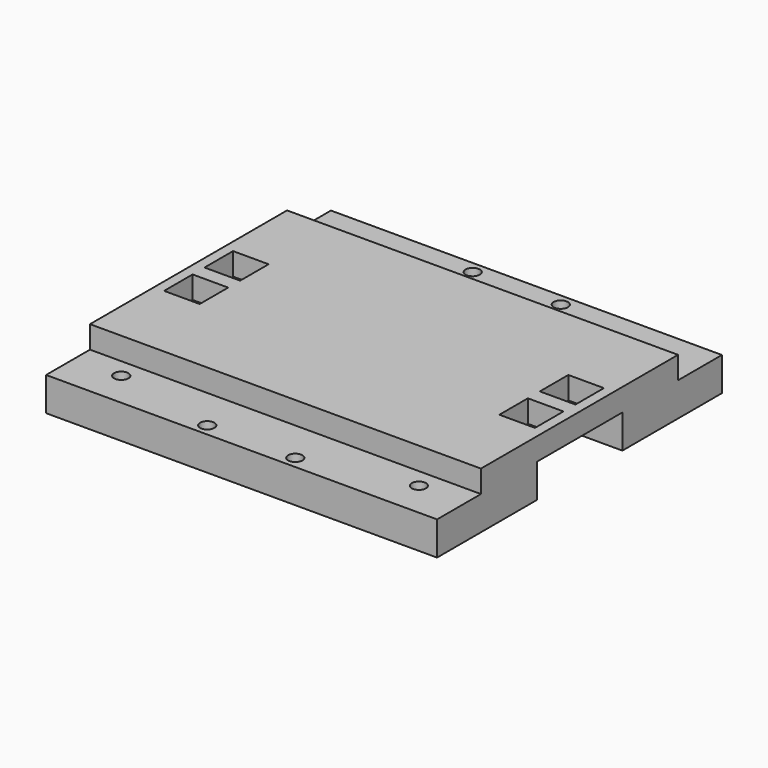
from build123d import *

# Parameters (mm, degrees)
F0_W      = 139.446
F0_H      = 20
F1_DEPTH  = 63.5
F2_W      = 139.446
F2_H      = 19.567398
F3_DEPTH  = 8.000009
F5_W      = 12.7
F5_H      = 12.7
F6_DEPTH  = 21.844
F8_R      = 2.54
F9_DEPTH  = 76.2
F13_W     = 53
F13_H     = 53
F13_W_2   = 35
F13_H_2   = 65
F14_DEPTH = 1.5
F15_DEPTH = 12.000001


with BuildPart() as f1:
    # F0 (on Front) → F1 (new body, symmetric)
    with BuildSketch(Plane.XZ):
        Rectangle(F0_W, F0_H)
    extrude(amount=F1_DEPTH, both=True)

    # F2 (on face) → F3 (cut)
    with BuildSketch(Plane.XY.offset(10)):
        with Locations((0, -53.716301)):
            Rectangle(F2_W, F2_H)
    extrude(amount=-F3_DEPTH, mode=Mode.SUBTRACT)

    # F4: F1 across plane


with BuildPart() as f1_1:
    add(f1.part)
    add(f1.part.mirror(Plane.XZ), mode=Mode.INTERSECT)

    # F5 (on face) → F6 (cut)
    with BuildSketch(Plane.XY.offset(10)):
        with Locations((59.793662, -9.017324)):
            Rectangle(F5_W, F5_H)
    extrude(amount=-F6_DEPTH, mode=Mode.SUBTRACT)

    # F8 (on face) → F9 (cut)
    with BuildSketch(Plane.XY.offset(1.999991)):
        with Locations((53.08092, -50.8)):
            Circle(F8_R)
        with Locations((15.705684, -59.173669)):
            Circle(F8_R)
    extrude(amount=-F9_DEPTH, mode=Mode.SUBTRACT)

    # F10: F1 across plane


with BuildPart() as f1_2:
    add(f1_1.part)
    add(f1_1.part.mirror(Plane.XZ), mode=Mode.INTERSECT)

    # F11: F1 across plane


with BuildPart() as f1_3:
    add(f1_2.part)
    add(f1_2.part.mirror(Plane.YZ), mode=Mode.INTERSECT)

    # F13 (on face) → F14 (cut)
    with BuildSketch(Plane(origin=(0, 0, -10), x_dir=(1, 0, 0), z_dir=(0, 0, -1))):
        with Locations((-21.51399, 1)):
            Rectangle(F13_W, F13_H)
        with Locations((29.994886, 0)):
            Rectangle(F13_W_2, F13_H_2)
    extrude(amount=-F14_DEPTH, mode=Mode.SUBTRACT)

    # F12 (on face) → F15 (cut)
    with BuildSketch(Plane(origin=(0, 0, -10), x_dir=(1, 0, 0), z_dir=(0, 0, -1))):
        Polygon((69.723, -19.123085), (69.723, 18.976915), (1.722882, 18.976915), (-69.723, 18.976915), (-69.723, -19.123085), (1.722882, -19.123085), align=None)
    extrude(amount=-F15_DEPTH, mode=Mode.SUBTRACT)


solid = f1_3.part
